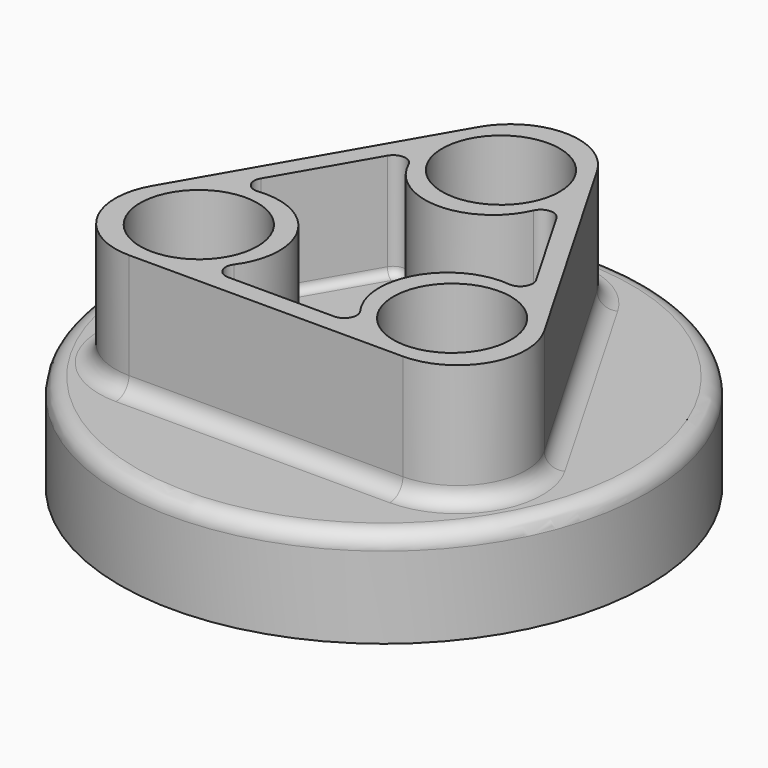
from build123d import *

# Parameters (mm, degrees)
SKETCH_R        = 32.393895
PAD_DEPTH       = 12
FILLET_R        = 2
PAD001_DEPTH    = 15
FILLET001_R     = 2
POCKET_DEPTH    = 13
SKETCH003_R     = 7.198044
POCKET001_DEPTH = 13
FILLET002_R     = 1


with BuildPart() as part:
    # Sketch → Pad (new body)
    with BuildSketch(Plane.XY):
        Circle(SKETCH_R)
    extrude(amount=PAD_DEPTH)

    # Fillet
    fillet_edges = [part.edges().sort_by_distance(p)[0] for p in [
        (-32.393895, 0, 12),
    ]]
    fillet(fillet_edges, radius=FILLET_R)

    # Sketch001 (on Face4 of Fillet) → Pad001 (join)
    with BuildSketch(Plane.XY.offset(12)):
        with BuildLine():
            ThreePointArc((7.268672, 23.598905), (0, 27.795475), (-7.268672, 23.598905))
            Line((-7.268672, 23.598905), (-24.071587, -5.504598))
            ThreePointArc((-24.071587, -5.504598), (-24.071587, -13.897737), (-16.802915, -18.094307))
            Line((-16.802915, -18.094307), (16.802915, -18.094307))
            ThreePointArc((16.802915, -18.094307), (24.071587, -13.897737), (24.071587, -5.504598))
            Line((24.071587, -5.504598), (7.268672, 23.598905))
        make_face()
    extrude(amount=PAD001_DEPTH)

    # Fillet001
    fillet001_edges = [part.edges().sort_by_distance(p)[0] for p in [
        (-30.393895, 0, 12),
        (0, 27.795475, 12),
        (-15.67013, 9.047154, 12),
        (-24.071587, -13.897737, 12),
        (0, -18.094307, 12),
        (24.071587, -13.897737, 12),
        (15.67013, 9.047154, 12),
    ]]
    fillet(fillet001_edges, radius=FILLET001_R)

    # Sketch004 (on Face4 of Fillet) → Pocket (cut)
    with BuildSketch(Plane.XY.offset(27)):
        with BuildLine():
            Line((16.879342, 2.224883), (10.371309, 13.497127))
            ThreePointArc((10.371309, 13.497127), (8.97108, 14.2567), (7.659291, 13.352929))
            ThreePointArc((-7.659291, 13.352929), (0, 8.370647), (7.659291, 13.352929))
            ThreePointArc((-7.659291, 13.352929), (-8.97108, 14.2567), (-10.371309, 13.497127))
            Line((-10.371309, 13.497127), (-16.879342, 2.224883))
            ThreePointArc((-16.879342, 2.224883), (-16.837038, 0.632462), (-15.398454, -0.051695))
            ThreePointArc((-7.739163, -13.317976), (-7.254026, -4.193694), (-15.398454, -0.051695))
            ThreePointArc((-7.739163, -13.317976), (-7.865958, -14.905904), (-6.508033, -15.738752))
            Line((-6.508033, -15.738752), (6.508033, -15.738752))
            ThreePointArc((6.508033, -15.738752), (7.865958, -14.905904), (7.739163, -13.317976))
            ThreePointArc((15.398454, -0.051695), (7.254026, -4.193694), (7.739163, -13.317976))
            ThreePointArc((15.398454, -0.051695), (16.837038, 0.632462), (16.879342, 2.224883))
        make_face()
    extrude(amount=-POCKET_DEPTH, mode=Mode.SUBTRACT)

    # Sketch003 (on Face4 of Fillet) → Pocket001 (cut)
    with BuildSketch(Plane.XY.offset(27)):
        with Locations((-15.53568, -8.969529)):
            Circle(SKETCH003_R)
        with Locations((0, 17.939058)):
            Circle(SKETCH003_R)
        with Locations((15.53568, -8.969529)):
            Circle(SKETCH003_R)
    extrude(amount=-POCKET001_DEPTH, mode=Mode.SUBTRACT)

    # Fillet002
    fillet002_edges = [part.edges().sort_by_distance(p)[0] for p in [
        (16.837038, 0.632462, 14),
        (13.625326, 7.861005, 14),
        (8.97108, 14.2567, 14),
        (0, 8.370647, 14),
        (-8.97108, 14.2567, 14),
        (-13.625326, 7.861005, 14),
        (-16.837038, 0.632462, 14),
        (-7.254026, -4.193694, 14),
        (-7.865958, -14.905904, 14),
        (0, -15.738752, 14),
        (7.865958, -14.905904, 14),
        (7.254026, -4.193694, 14),
    ]]
    fillet(fillet002_edges, radius=FILLET002_R)


solid = part.part
